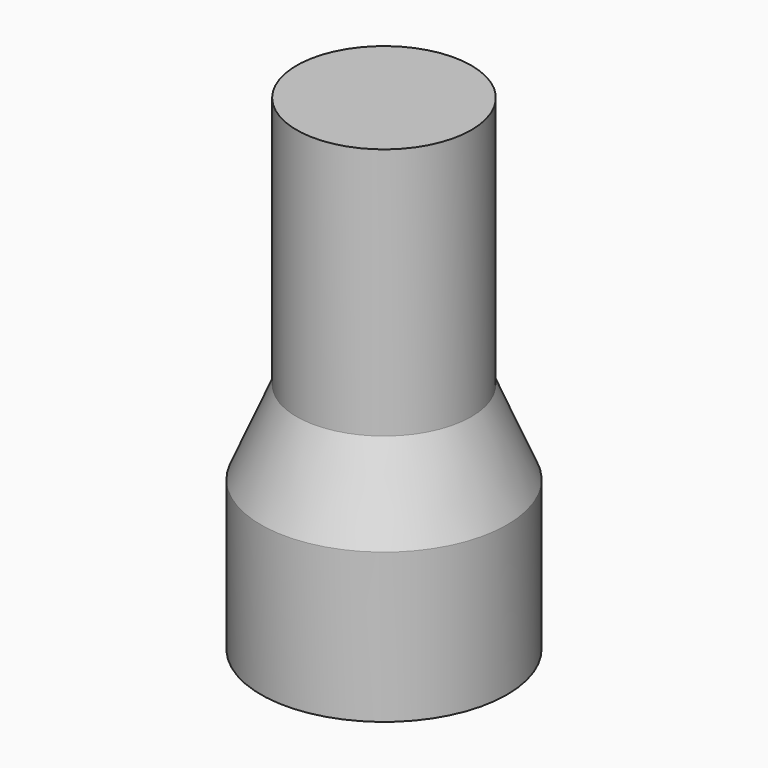
from build123d import *

# Parameters (mm, degrees)
F0_R      = 6.3393732753
F1_DEPTH  = 7.2
F2_R      = 6.3393732753
F3_DEPTH  = 0.5
F3_FACE_R = 6.3393732753
F5_R      = 4.5
F7_DEPTH  = 13
F8_R      = 1


with BuildPart() as f1:
    # F0 (on Top) → F1 (new body)
    with BuildSketch(Plane.XY):
        Circle(F0_R)
        Polygon((-2.5506196154, -3.5106267247), (-4.1269892301, 1.340940087), (0, 4.3393732753), (4.1269892301, 1.340940087), (2.5506196154, -3.5106267247), align=None, mode=Mode.SUBTRACT)
    extrude(amount=F1_DEPTH)

    # F2 (on face) → F3 (join)
    with BuildSketch(Plane.XY.offset(7.2)):
        Circle(F2_R)
        Polygon((2.5506196154, -3.5106267247), (-2.5506196154, -3.5106267247), (-4.1269892301, 1.340940087), (0, 4.3393732753), (4.1269892301, 1.340940087), align=None, mode=Mode.SUBTRACT)
        Polygon((-4.1269892301, 1.340940087), (-2.5506196154, -3.5106267247), (2.5506196154, -3.5106267247), (4.1269892301, 1.340940087), (0, 4.3393732753), align=None)
    extrude(amount=F3_DEPTH)

    # F3_face (on face) → F6 section 0
    with BuildSketch(Plane.XY.offset(7.7)):
        Circle(F3_FACE_R)
    # F5 (on offset) → F6 section 1
    with BuildSketch(Plane.XY.offset(12)):
        Circle(F5_R)
    loft()

    # F7 (add): a face of the model
    f7_faces = [f1.faces().sort_by_distance(p)[0] for p in [
        (0, 0, 12),
    ]]
    extrude(f7_faces, amount=F7_DEPTH)

    # F8
    f8_edges = [f1.edges().sort_by_distance(p)[0] for p in [
        (-3.338804, -1.084843, 0),
        (0, -3.510627, 0),
        (3.338804, -1.084843, 0),
        (2.063495, 2.840157, 0),
        (-2.063495, 2.840157, 0),
    ]]
    fillet(f8_edges, radius=F8_R)


solid = f1.part
